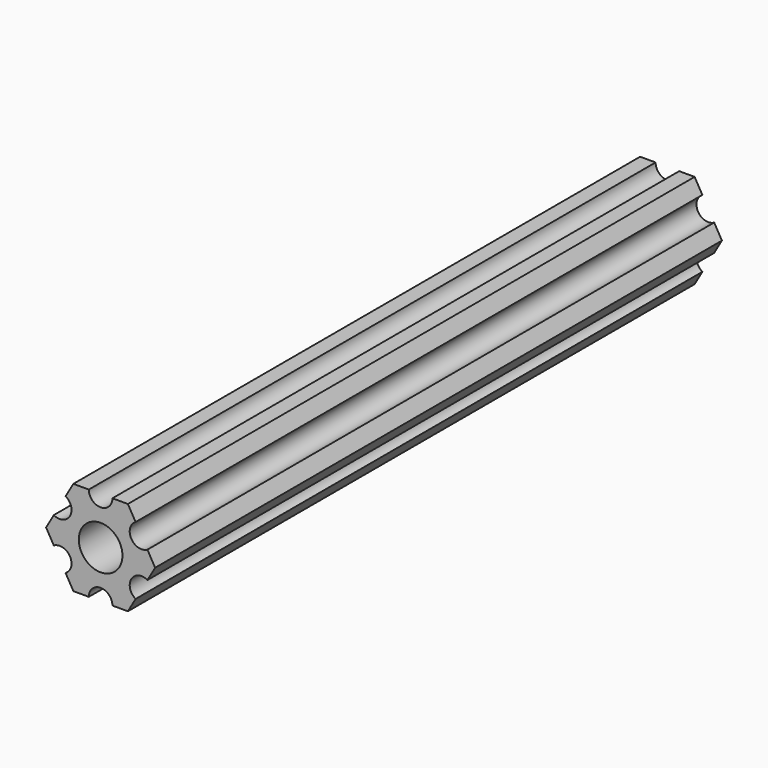
from build123d import *

# Parameters (mm, degrees)
F0_R     = 2.9337
F1_DEPTH = 95.25


with BuildPart() as f1:
    # F0 (on Front) → F1 (new body)
    with BuildSketch(Plane.XZ):
        with BuildLine():
            ThreePointArc((4.818488, -3.645982), (4.237422, -1.477417), (6.405988, -0.896352))
            Line((6.405988, -0.896352), (7.445324, 0.903833))
            Line((7.445324, 0.903833), (6.405987, 2.704018))
            ThreePointArc((6.405987, 2.704018), (4.237422, 3.285083), (4.818487, 5.453648))
            Line((4.818487, 5.453648), (3.77915, 7.253833))
            Line((3.77915, 7.253833), (1.700476, 7.253833))
            ThreePointArc((1.700476, 7.253833), (0.112976, 5.666333), (-1.474524, 7.253833))
            Line((-1.474524, 7.253833), (-3.553199, 7.253832))
            Line((-3.553199, 7.253832), (-4.592536, 5.453648))
            ThreePointArc((-4.592536, 5.453648), (-4.01147, 3.285082), (-6.180035, 2.704017))
            Line((-6.180035, 2.704017), (-7.219372, 0.903832))
            Line((-7.219372, 0.903832), (-6.180035, -0.896352))
            ThreePointArc((-6.180035, -0.896352), (-4.01147, -1.477418), (-4.592535, -3.645983))
            Line((-4.592535, -3.645983), (-3.553198, -5.446168))
            Line((-3.553198, -5.446168), (-1.474524, -5.446167))
            ThreePointArc((-1.474524, -5.446167), (0.112976, -3.858667), (1.700476, -5.446167))
            Line((1.700476, -5.446167), (3.779151, -5.446167))
            Line((3.779151, -5.446167), (4.818488, -3.645982))
        make_face()
        with Locations((0.112976, 0.903833)):
            Circle(F0_R, mode=Mode.SUBTRACT)
    extrude(amount=F1_DEPTH)


solid = f1.part
